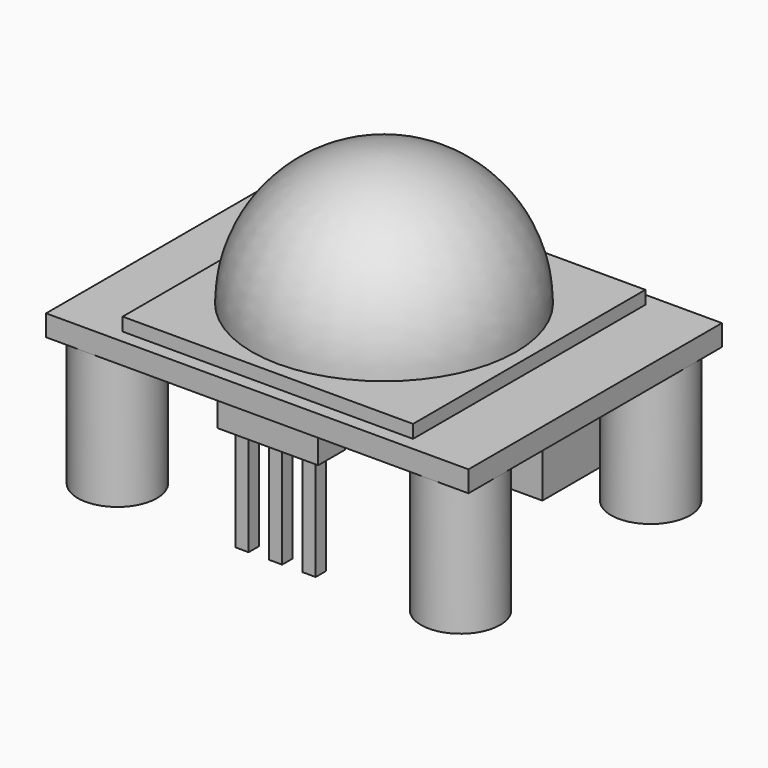
from build123d import *

# Parameters (mm, degrees)
CYLINDER_R               = 3
CYLINDER_DEPTH           = 10
BOX004_W                 = 13
BOX004_H                 = 6
BOX004_DEPTH             = 10
BOX003_W                 = 1
BOX003_H                 = 1
BOX003_DEPTH             = 8.5
BOX002_W                 = 7.62
BOX002_H                 = 2.54
BOX002_DEPTH             = 2.5
BOX_W                    = 32
BOX_H                    = 24
BOX_DEPTH                = 1.6
BOX001_W                 = 22
BOX001_H                 = 22
BOX001_DEPTH             = 1
CLONE005_PLACEMENT_ANGLE = 90


with BuildPart() as cylinder:
    # Cylinder → Cylinder (new body)
    with BuildSketch(Plane(origin=(13, 9, 0), x_dir=(1, 0, 0), z_dir=(0, 0, -1))):
        Circle(CYLINDER_R)
    extrude(amount=CYLINDER_DEPTH)


with BuildPart() as clone_of_cylinder002:
    # Clone002 base: copy of Cylinder
    add(cylinder.part)


with BuildPart() as clone_of_cylinder002_1:
    # Clone002 placement: moved
    add(clone_of_cylinder002.part.moved(Location((-22, 0, 0))))


with BuildPart() as cube004:
    # Box004 → Box004 (new body)
    with BuildSketch(Plane(origin=(-5, 11, 0), x_dir=(1, 0, 0), z_dir=(0, 0, -1))):
        with Locations((6.5, 3)):
            Rectangle(BOX004_W, BOX004_H)
    extrude(amount=BOX004_DEPTH)


with BuildPart() as clone_of_cylinder:
    # Clone base: copy of Cylinder
    add(cylinder.part)


with BuildPart() as clone_of_cylinder_1:
    # Clone placement: moved
    add(clone_of_cylinder.part.moved(Location((0, -18, 0))))


with BuildPart() as cube003:
    # Box003 → Box003 (new body)
    with BuildSketch(Plane(origin=(2.04, -10.27, -10.5), x_dir=(1, 0, 0), z_dir=(0, 0, 1))):
        with Locations((0.5, 0.5)):
            Rectangle(BOX003_W, BOX003_H)
    extrude(amount=BOX003_DEPTH)


with BuildPart() as clone_of_cube003:
    # Clone003 base: copy of Cube003
    add(cube003.part)


with BuildPart() as clone_of_cube003_1:
    # Clone003 placement: moved
    add(clone_of_cube003.part.moved(Location((-5.08, 0, 0))))


with BuildPart() as clone_of_cube004:
    # Clone004 base: copy of Cube003
    add(cube003.part)


with BuildPart() as clone_of_cube004_1:
    # Clone004 placement: moved
    add(clone_of_cube004.part.moved(Location((-2.54, 0, 0))))


with BuildPart() as fusion:
    # Box002 → Box002 (new body)
    with BuildSketch(Plane(origin=(-3.81, -11, -2.5), x_dir=(1, 0, 0), z_dir=(0, 0, 1))):
        with Locations((3.81, 1.27)):
            Rectangle(BOX002_W, BOX002_H)
    extrude(amount=BOX002_DEPTH)

    # Fusion: union Clone of Cube003, Clone of Cube004, Cube003
    add(clone_of_cube003_1.part)
    add(clone_of_cube004_1.part)
    add(cube003.part)


with BuildPart() as clone_of_cylinder001:
    # Clone001 base: copy of Cylinder
    add(cylinder.part)


with BuildPart() as clone_of_cylinder001_1:
    # Clone001 placement: moved
    add(clone_of_cylinder001.part.moved(Location((-26, -18, 0))))


with BuildPart() as cube:
    # Box → Box (new body)
    with BuildSketch(Plane(origin=(-16, -12, 0), x_dir=(1, 0, 0), z_dir=(0, 0, 1))):
        with Locations((16, 12)):
            Rectangle(BOX_W, BOX_H)
    extrude(amount=BOX_DEPTH)


with BuildPart() as sphere:
    # Sphere → Sphere (revolve)
    with BuildSketch(Plane(origin=(0, 0, 2.6), x_dir=(1, 0, 0), z_dir=(0, -1, 0))):
        with BuildLine():
            ThreePointArc((10, 0), (7.071068, 7.071068), (0, 10))
            Line((0, 10), (0, 0))
            Line((0, 0), (10, 0))
        make_face()
    revolve(axis=Axis((0, 0, 2.6), (0, 0, 1)))


with BuildPart() as fusion001:
    # Box001 → Box001 (new body)
    with BuildSketch(Plane(origin=(-11, -11, 1.6), x_dir=(1, 0, 0), z_dir=(0, 0, 1))):
        with Locations((11, 11)):
            Rectangle(BOX001_W, BOX001_H)
    extrude(amount=BOX001_DEPTH)

    # Fusion001: union Sphere
    add(sphere.part)


with BuildPart() as obj1:
    # Clone005 base: copy of Fusion
    add(fusion.part)


with BuildPart() as obj1_1:
    # Clone005 placement: moved
    add(obj1.part.moved(Location((-24, 7, 0))).rotate(Axis((-24, 7, 0), (0, 0, 1)), CLONE005_PLACEMENT_ANGLE))

    # Fusion002: union Clone of Cylinder002, Cube004, Cylinder, Clone of Cylinder, Fusion, Clone of Cylinder001, Cube, Fusion001
    add(clone_of_cylinder002_1.part)
    add(cube004.part)
    add(cylinder.part)
    add(clone_of_cylinder_1.part)
    add(fusion.part)
    add(clone_of_cylinder001_1.part)
    add(cube.part)
    add(fusion001.part)


solid = obj1_1.part
